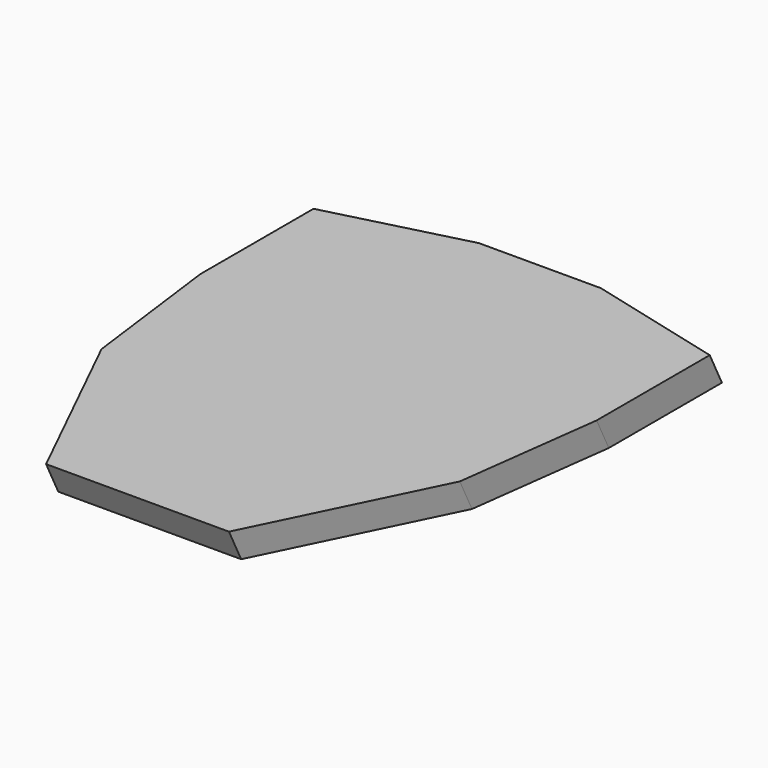
from build123d import *


with BuildPart() as f3:
    # F0 (on Top) → F3 section 0
    with BuildSketch(Plane.XY):
        Polygon((65, 28.6817904562), (20, 40.2744300663), (-20, 40.2744300663), (-65, 28.6817904562), (-65, -17.7070442587), (-58.7742775679, -66.0424605012), (-30, -124.7455254197), (30, -124.7455254197), (58.7742775679, -66.0424605012), (65, -17.7070442587), align=None)
    # F2 (on offset) → F3 section 1
    with BuildSketch(Plane.XY.offset(10)):
        Polygon((58.7742775679, -71.0424605012), (65, -22.7070442587), (65, 23.6817904562), (20, 35.2744300663), (-20, 35.2744300663), (-65, 23.6817904562), (-65, -22.7070442587), (-58.7742775679, -71.0424605012), (-30, -129.7455254197), (30, -129.7455254197), align=None)
    loft()

    # F33: F3 across plane


with BuildPart() as f3_1:
    add(f3.part)
    add(f3.part.mirror(Plane.YZ))


solid = f3_1.part
